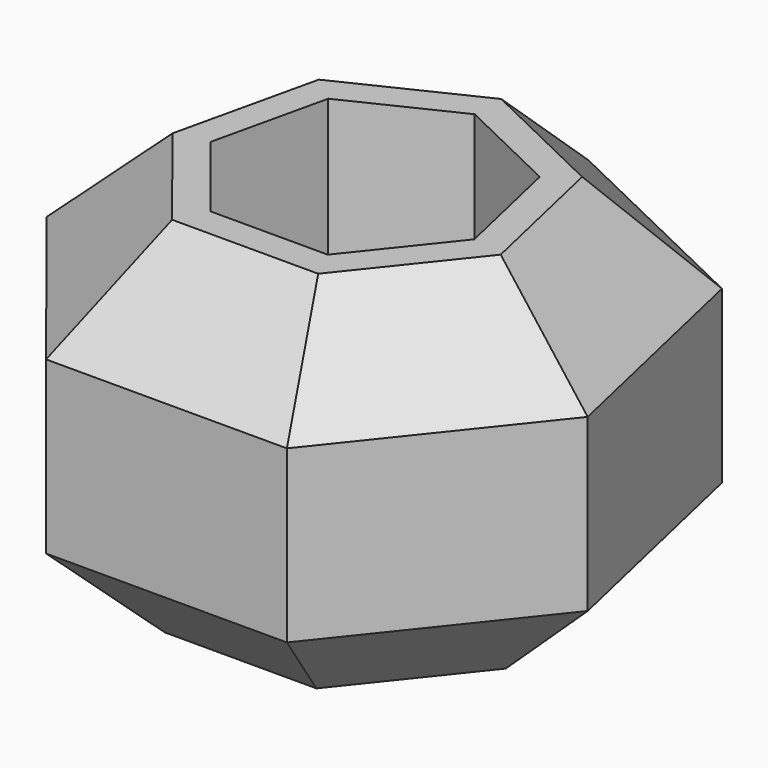
from build123d import *

# Parameters (mm, degrees)
F1_DEPTH = 60
F2_SIZE  = 18
F4_DEPTH = 50
F6_W     = 58.8767696172
F6_H     = 9.2865563929
F7_DEPTH = 90
F8_W     = 55
F8_H     = 5
F9_DEPTH = 100


with BuildPart() as f1:
    # F0 (on Top) → F1 (new body)
    with BuildSketch(Plane.XY):
        Polygon((-16.9115909807, -35.1172805215), (16.9115909807, -35.1172805215), (38, -8.6732520268), (30.4736339606, 24.3019121461), (0, 38.9772408044), (-30.4736339606, 24.3019121461), (-38, -8.6732520268), align=None)
    extrude(amount=F1_DEPTH)

    # F2
    f2_edges = [f1.edges().sort_by_distance(p)[0] for p in [
        (0, -35.117281, 0),
        (27.455795, -21.895266, 0),
        (34.236817, 7.81433, 0),
        (15.236817, 31.639576, 0),
        (-15.236817, 31.639576, 0),
        (-34.236817, 7.81433, 0),
        (-27.455795, -21.895266, 0),
        (0, -35.117281, 60),
        (27.455795, -21.895266, 60),
        (34.236817, 7.81433, 60),
        (15.236817, 31.639576, 60),
        (-15.236817, 31.639576, 60),
        (-34.236817, 7.81433, 60),
        (-27.455795, -21.895266, 60),
    ]]
    chamfer(f2_edges, length=F2_SIZE)

    # F3 (on face) → F4 (cut)
    with BuildSketch(Plane.XY.offset(60)):
        Polygon((-18.5224097697, -4.2276191599), (-8.2432478421, -17.1172805215), (8.2432478421, -17.1172805215), (18.5224097697, -4.2276191599), (14.8538193524, 11.8455256568), (0, 18.9987480492), (-14.8538193524, 11.8455256568), align=None)
    extrude(amount=-F4_DEPTH, mode=Mode.SUBTRACT)

    # F6 (on offset) → F7 (cut)
    with BuildSketch(Plane.XZ.offset(45)):
        with Locations((0.9286543354, 60.4554843158)):
            Rectangle(F6_W, F6_H)
    extrude(amount=-F7_DEPTH, mode=Mode.SUBTRACT)

    # F8 (on offset) → F9 (cut)
    with BuildSketch(Plane.XZ.offset(45)):
        with Locations((3.5671484997, 2.5)):
            Rectangle(F8_W, F8_H)
    extrude(amount=-F9_DEPTH, mode=Mode.SUBTRACT)


solid = f1.part
